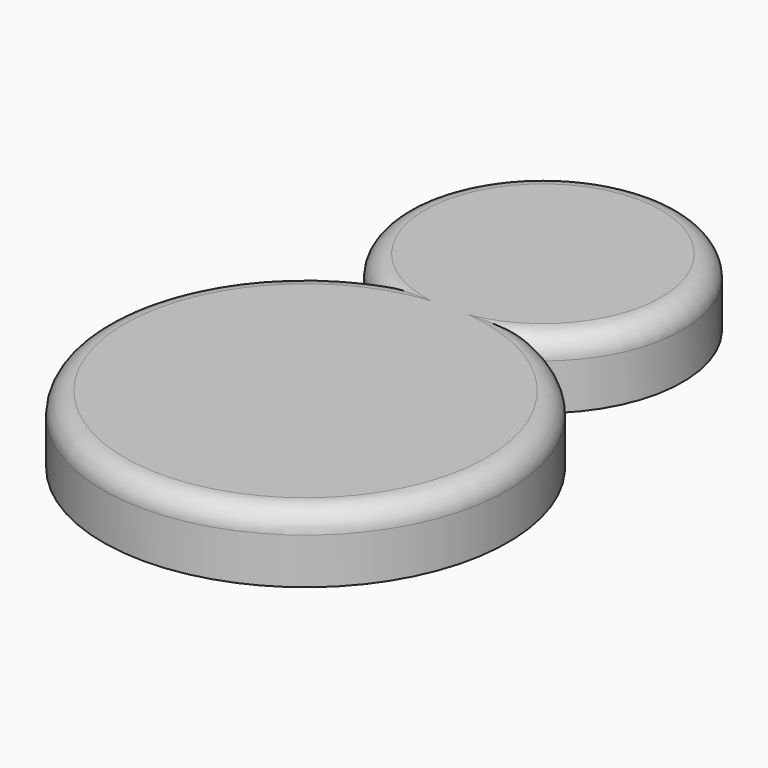
from build123d import *

# Parameters (mm, degrees)
F1_DEPTH = 127
F2_R     = 40.64


with BuildPart() as f1:
    # F0 (on Top) → F1 (new body)
    with BuildSketch(Plane.XY):
        with BuildLine():
            ThreePointArc((-157.112054, 48.522748), (0, -679.574936), (157.112054, 48.522748))
            ThreePointArc((157.112054, 48.522748), (0, 522.218945), (-157.112054, 48.522748))
        make_face()
    extrude(amount=F1_DEPTH)

    # F2
    f2_edges = [f1.edges().sort_by_distance(p)[0] for p in [
        (0, 522.218945, 127),
        (0, -679.574936, 127),
    ]]
    fillet(f2_edges, radius=F2_R)


solid = f1.part
